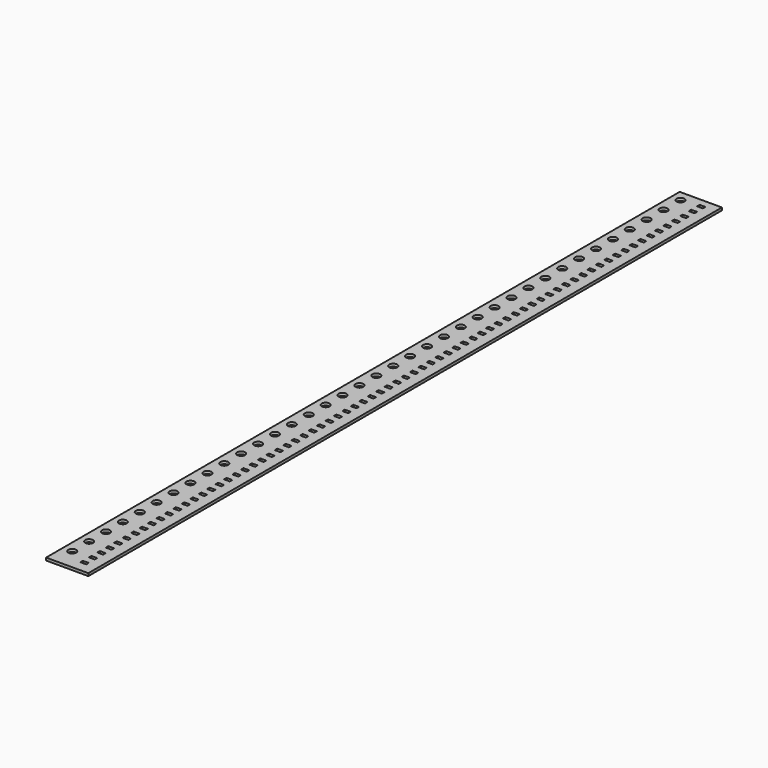
from build123d import *

# Parameters (mm, degrees)
F0_W     = 8
F0_H     = 150
F0_R     = 0.75
F0_W_2   = 1.1
F0_H_2   = 0.6
F1_DEPTH = 0.5


with BuildPart() as f1:
    # F0 (on Top) → F1 (new body)
    with BuildSketch(Plane.XY):
        with Locations((4, 75)):
            Rectangle(F0_W, F0_H)
        with Locations((1.75, 4)):
            Circle(F0_R, mode=Mode.SUBTRACT)
        with Locations((1.75, 8)):
            Circle(F0_R, mode=Mode.SUBTRACT)
        with Locations((1.75, 12)):
            Circle(F0_R, mode=Mode.SUBTRACT)
        with Locations((1.75, 16)):
            Circle(F0_R, mode=Mode.SUBTRACT)
        with Locations((1.75, 20)):
            Circle(F0_R, mode=Mode.SUBTRACT)
        with Locations((1.75, 24)):
            Circle(F0_R, mode=Mode.SUBTRACT)
        with Locations((1.75, 28)):
            Circle(F0_R, mode=Mode.SUBTRACT)
        with Locations((1.75, 32)):
            Circle(F0_R, mode=Mode.SUBTRACT)
        with Locations((1.75, 36)):
            Circle(F0_R, mode=Mode.SUBTRACT)
        with Locations((1.75, 40)):
            Circle(F0_R, mode=Mode.SUBTRACT)
        with Locations((1.75, 44)):
            Circle(F0_R, mode=Mode.SUBTRACT)
        with Locations((1.75, 48)):
            Circle(F0_R, mode=Mode.SUBTRACT)
        with Locations((1.75, 52)):
            Circle(F0_R, mode=Mode.SUBTRACT)
        with Locations((1.75, 56)):
            Circle(F0_R, mode=Mode.SUBTRACT)
        with Locations((1.75, 60)):
            Circle(F0_R, mode=Mode.SUBTRACT)
        with Locations((1.75, 64)):
            Circle(F0_R, mode=Mode.SUBTRACT)
        with Locations((1.75, 68)):
            Circle(F0_R, mode=Mode.SUBTRACT)
        with Locations((1.75, 72)):
            Circle(F0_R, mode=Mode.SUBTRACT)
        with Locations((5.45, 2.3)):
            Rectangle(F0_W_2, F0_H_2, mode=Mode.SUBTRACT)
        with Locations((5.45, 4.3)):
            Rectangle(F0_W_2, F0_H_2, mode=Mode.SUBTRACT)
        with Locations((5.45, 6.3)):
            Rectangle(F0_W_2, F0_H_2, mode=Mode.SUBTRACT)
        with Locations((5.45, 8.3)):
            Rectangle(F0_W_2, F0_H_2, mode=Mode.SUBTRACT)
        with Locations((5.45, 10.3)):
            Rectangle(F0_W_2, F0_H_2, mode=Mode.SUBTRACT)
        with Locations((5.45, 12.3)):
            Rectangle(F0_W_2, F0_H_2, mode=Mode.SUBTRACT)
        with Locations((5.45, 14.3)):
            Rectangle(F0_W_2, F0_H_2, mode=Mode.SUBTRACT)
        with Locations((5.45, 16.3)):
            Rectangle(F0_W_2, F0_H_2, mode=Mode.SUBTRACT)
        with Locations((5.45, 18.3)):
            Rectangle(F0_W_2, F0_H_2, mode=Mode.SUBTRACT)
        with Locations((5.45, 20.3)):
            Rectangle(F0_W_2, F0_H_2, mode=Mode.SUBTRACT)
        with Locations((5.45, 22.3)):
            Rectangle(F0_W_2, F0_H_2, mode=Mode.SUBTRACT)
        with Locations((5.45, 24.3)):
            Rectangle(F0_W_2, F0_H_2, mode=Mode.SUBTRACT)
        with Locations((5.45, 26.3)):
            Rectangle(F0_W_2, F0_H_2, mode=Mode.SUBTRACT)
        with Locations((5.45, 28.3)):
            Rectangle(F0_W_2, F0_H_2, mode=Mode.SUBTRACT)
        with Locations((5.45, 30.3)):
            Rectangle(F0_W_2, F0_H_2, mode=Mode.SUBTRACT)
        with Locations((5.45, 32.3)):
            Rectangle(F0_W_2, F0_H_2, mode=Mode.SUBTRACT)
        with Locations((5.45, 34.3)):
            Rectangle(F0_W_2, F0_H_2, mode=Mode.SUBTRACT)
        with Locations((5.45, 36.3)):
            Rectangle(F0_W_2, F0_H_2, mode=Mode.SUBTRACT)
        with Locations((5.45, 38.3)):
            Rectangle(F0_W_2, F0_H_2, mode=Mode.SUBTRACT)
        with Locations((5.45, 40.3)):
            Rectangle(F0_W_2, F0_H_2, mode=Mode.SUBTRACT)
        with Locations((5.45, 42.3)):
            Rectangle(F0_W_2, F0_H_2, mode=Mode.SUBTRACT)
        with Locations((5.45, 44.3)):
            Rectangle(F0_W_2, F0_H_2, mode=Mode.SUBTRACT)
        with Locations((5.45, 46.3)):
            Rectangle(F0_W_2, F0_H_2, mode=Mode.SUBTRACT)
        with Locations((5.45, 48.3)):
            Rectangle(F0_W_2, F0_H_2, mode=Mode.SUBTRACT)
        with Locations((5.45, 50.3)):
            Rectangle(F0_W_2, F0_H_2, mode=Mode.SUBTRACT)
        with Locations((5.45, 52.3)):
            Rectangle(F0_W_2, F0_H_2, mode=Mode.SUBTRACT)
        with Locations((5.45, 54.3)):
            Rectangle(F0_W_2, F0_H_2, mode=Mode.SUBTRACT)
        with Locations((5.45, 56.3)):
            Rectangle(F0_W_2, F0_H_2, mode=Mode.SUBTRACT)
        with Locations((5.45, 58.3)):
            Rectangle(F0_W_2, F0_H_2, mode=Mode.SUBTRACT)
        with Locations((5.45, 60.3)):
            Rectangle(F0_W_2, F0_H_2, mode=Mode.SUBTRACT)
        with Locations((5.45, 62.3)):
            Rectangle(F0_W_2, F0_H_2, mode=Mode.SUBTRACT)
        with Locations((5.45, 64.3)):
            Rectangle(F0_W_2, F0_H_2, mode=Mode.SUBTRACT)
        with Locations((5.45, 66.3)):
            Rectangle(F0_W_2, F0_H_2, mode=Mode.SUBTRACT)
        with Locations((5.45, 68.3)):
            Rectangle(F0_W_2, F0_H_2, mode=Mode.SUBTRACT)
        with Locations((5.45, 70.3)):
            Rectangle(F0_W_2, F0_H_2, mode=Mode.SUBTRACT)
        with Locations((5.45, 72.3)):
            Rectangle(F0_W_2, F0_H_2, mode=Mode.SUBTRACT)
        with Locations((5.45, 74.3)):
            Rectangle(F0_W_2, F0_H_2, mode=Mode.SUBTRACT)
        with Locations((1.75, 76)):
            Circle(F0_R, mode=Mode.SUBTRACT)
        with Locations((1.75, 80)):
            Circle(F0_R, mode=Mode.SUBTRACT)
        with Locations((1.75, 84)):
            Circle(F0_R, mode=Mode.SUBTRACT)
        with Locations((1.75, 88)):
            Circle(F0_R, mode=Mode.SUBTRACT)
        with Locations((1.75, 92)):
            Circle(F0_R, mode=Mode.SUBTRACT)
        with Locations((1.75, 96)):
            Circle(F0_R, mode=Mode.SUBTRACT)
        with Locations((1.75, 100)):
            Circle(F0_R, mode=Mode.SUBTRACT)
        with Locations((1.75, 104)):
            Circle(F0_R, mode=Mode.SUBTRACT)
        with Locations((1.75, 108)):
            Circle(F0_R, mode=Mode.SUBTRACT)
        with Locations((1.75, 112)):
            Circle(F0_R, mode=Mode.SUBTRACT)
        with Locations((1.75, 116)):
            Circle(F0_R, mode=Mode.SUBTRACT)
        with Locations((1.75, 120)):
            Circle(F0_R, mode=Mode.SUBTRACT)
        with Locations((1.75, 124)):
            Circle(F0_R, mode=Mode.SUBTRACT)
        with Locations((1.75, 128)):
            Circle(F0_R, mode=Mode.SUBTRACT)
        with Locations((1.75, 132)):
            Circle(F0_R, mode=Mode.SUBTRACT)
        with Locations((1.75, 136)):
            Circle(F0_R, mode=Mode.SUBTRACT)
        with Locations((1.75, 140)):
            Circle(F0_R, mode=Mode.SUBTRACT)
        with Locations((1.75, 144)):
            Circle(F0_R, mode=Mode.SUBTRACT)
        with Locations((1.75, 148)):
            Circle(F0_R, mode=Mode.SUBTRACT)
        with Locations((5.45, 76.3)):
            Rectangle(F0_W_2, F0_H_2, mode=Mode.SUBTRACT)
        with Locations((5.45, 78.3)):
            Rectangle(F0_W_2, F0_H_2, mode=Mode.SUBTRACT)
        with Locations((5.45, 80.3)):
            Rectangle(F0_W_2, F0_H_2, mode=Mode.SUBTRACT)
        with Locations((5.45, 82.3)):
            Rectangle(F0_W_2, F0_H_2, mode=Mode.SUBTRACT)
        with Locations((5.45, 84.3)):
            Rectangle(F0_W_2, F0_H_2, mode=Mode.SUBTRACT)
        with Locations((5.45, 86.3)):
            Rectangle(F0_W_2, F0_H_2, mode=Mode.SUBTRACT)
        with Locations((5.45, 88.3)):
            Rectangle(F0_W_2, F0_H_2, mode=Mode.SUBTRACT)
        with Locations((5.45, 90.3)):
            Rectangle(F0_W_2, F0_H_2, mode=Mode.SUBTRACT)
        with Locations((5.45, 92.3)):
            Rectangle(F0_W_2, F0_H_2, mode=Mode.SUBTRACT)
        with Locations((5.45, 94.3)):
            Rectangle(F0_W_2, F0_H_2, mode=Mode.SUBTRACT)
        with Locations((5.45, 96.3)):
            Rectangle(F0_W_2, F0_H_2, mode=Mode.SUBTRACT)
        with Locations((5.45, 98.3)):
            Rectangle(F0_W_2, F0_H_2, mode=Mode.SUBTRACT)
        with Locations((5.45, 100.3)):
            Rectangle(F0_W_2, F0_H_2, mode=Mode.SUBTRACT)
        with Locations((5.45, 102.3)):
            Rectangle(F0_W_2, F0_H_2, mode=Mode.SUBTRACT)
        with Locations((5.45, 104.3)):
            Rectangle(F0_W_2, F0_H_2, mode=Mode.SUBTRACT)
        with Locations((5.45, 106.3)):
            Rectangle(F0_W_2, F0_H_2, mode=Mode.SUBTRACT)
        with Locations((5.45, 108.3)):
            Rectangle(F0_W_2, F0_H_2, mode=Mode.SUBTRACT)
        with Locations((5.45, 110.3)):
            Rectangle(F0_W_2, F0_H_2, mode=Mode.SUBTRACT)
        with Locations((5.45, 112.3)):
            Rectangle(F0_W_2, F0_H_2, mode=Mode.SUBTRACT)
        with Locations((5.45, 114.3)):
            Rectangle(F0_W_2, F0_H_2, mode=Mode.SUBTRACT)
        with Locations((5.45, 116.3)):
            Rectangle(F0_W_2, F0_H_2, mode=Mode.SUBTRACT)
        with Locations((5.45, 118.3)):
            Rectangle(F0_W_2, F0_H_2, mode=Mode.SUBTRACT)
        with Locations((5.45, 120.3)):
            Rectangle(F0_W_2, F0_H_2, mode=Mode.SUBTRACT)
        with Locations((5.45, 122.3)):
            Rectangle(F0_W_2, F0_H_2, mode=Mode.SUBTRACT)
        with Locations((5.45, 124.3)):
            Rectangle(F0_W_2, F0_H_2, mode=Mode.SUBTRACT)
        with Locations((5.45, 126.3)):
            Rectangle(F0_W_2, F0_H_2, mode=Mode.SUBTRACT)
        with Locations((5.45, 128.3)):
            Rectangle(F0_W_2, F0_H_2, mode=Mode.SUBTRACT)
        with Locations((5.45, 130.3)):
            Rectangle(F0_W_2, F0_H_2, mode=Mode.SUBTRACT)
        with Locations((5.45, 132.3)):
            Rectangle(F0_W_2, F0_H_2, mode=Mode.SUBTRACT)
        with Locations((5.45, 134.3)):
            Rectangle(F0_W_2, F0_H_2, mode=Mode.SUBTRACT)
        with Locations((5.45, 136.3)):
            Rectangle(F0_W_2, F0_H_2, mode=Mode.SUBTRACT)
        with Locations((5.45, 138.3)):
            Rectangle(F0_W_2, F0_H_2, mode=Mode.SUBTRACT)
        with Locations((5.45, 140.3)):
            Rectangle(F0_W_2, F0_H_2, mode=Mode.SUBTRACT)
        with Locations((5.45, 142.3)):
            Rectangle(F0_W_2, F0_H_2, mode=Mode.SUBTRACT)
        with Locations((5.45, 144.3)):
            Rectangle(F0_W_2, F0_H_2, mode=Mode.SUBTRACT)
        with Locations((5.45, 146.3)):
            Rectangle(F0_W_2, F0_H_2, mode=Mode.SUBTRACT)
        with Locations((5.45, 148.3)):
            Rectangle(F0_W_2, F0_H_2, mode=Mode.SUBTRACT)
    extrude(amount=F1_DEPTH)


solid = f1.part
